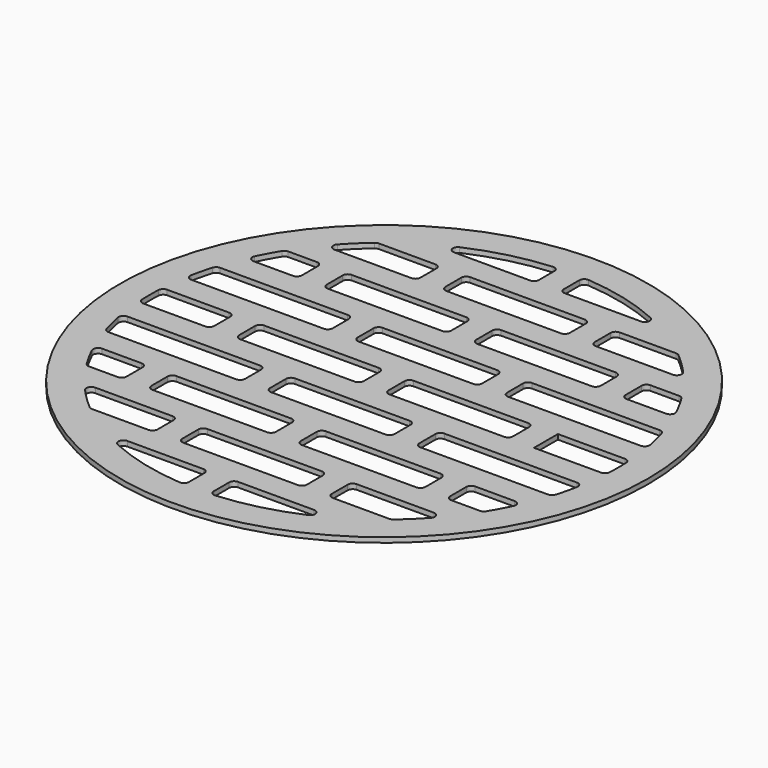
from build123d import *

# Parameters (mm, degrees)
F0_R     = 53
F0_W     = 25
F0_H     = 6
F1_DEPTH = 1
F2_R     = 1


with BuildPart() as f1:
    # F0 (on Top) → F1 (new body)
    with BuildSketch(Plane.XY):
        Circle(F0_R)
        with BuildLine():
            Line((-17.5, -30), (-17.5, -36))
            Line((-17.5, -36), (-30.21589, -36))
            ThreePointArc((-30.21589, -36), (-33.333272, -33.134468), (-36.180105, -30))
            Line((-36.180105, -30), (-17.5, -30))
        make_face(mode=Mode.SUBTRACT)
        with BuildLine():
            Line((-2.5, -41), (-2.5, -46.933464))
            ThreePointArc((-2.5, -46.933464), (-13.080016, -45.143252), (-22.978251, -41))
            Line((-22.978251, -41), (-2.5, -41))
        make_face(mode=Mode.SUBTRACT)
        with BuildLine():
            Line((-32.5, -25), (-39.799497, -25))
            ThreePointArc((-39.799497, -25), (-41.502503, -22.057702), (-42.988371, -19))
            Line((-42.988371, -19), (-32.5, -19))
            Line((-32.5, -19), (-32.5, -25))
        make_face(mode=Mode.SUBTRACT)
        with BuildLine():
            Line((-17.5, -14), (-44.866469, -14))
            ThreePointArc((-44.866469, -14), (-45.688905, -11.02379), (-46.314145, -8))
            Line((-46.314145, -8), (-17.5, -8))
            Line((-17.5, -8), (-17.5, -14))
        make_face(mode=Mode.SUBTRACT)
        with Locations((-15, -22)):
            Rectangle(F0_W, F0_H, mode=Mode.SUBTRACT)
        with BuildLine():
            ThreePointArc((22.978251, -41), (13.080016, -45.143252), (2.5, -46.933464))
            Line((2.5, -46.933464), (2.5, -41))
            Line((2.5, -41), (22.978251, -41))
        make_face(mode=Mode.SUBTRACT)
        with Locations((0, -33)):
            Rectangle(F0_W, F0_H, mode=Mode.SUBTRACT)
        with BuildLine():
            Line((30.21589, -36), (17.5, -36))
            Line((17.5, -36), (17.5, -30))
            Line((17.5, -30), (36.180105, -30))
            ThreePointArc((36.180105, -30), (33.333272, -33.134468), (30.21589, -36))
        make_face(mode=Mode.SUBTRACT)
        with Locations((15, -22)):
            Rectangle(F0_W, F0_H, mode=Mode.SUBTRACT)
        with Locations((0, -11)):
            Rectangle(F0_W, F0_H, mode=Mode.SUBTRACT)
        with BuildLine():
            Line((32.5, -19), (42.988371, -19))
            ThreePointArc((42.988371, -19), (41.502503, -22.057702), (39.799497, -25))
            Line((39.799497, -25), (32.5, -25))
            Line((32.5, -25), (32.5, -19))
        make_face(mode=Mode.SUBTRACT)
        with BuildLine():
            Line((17.5, -8), (46.314145, -8))
            ThreePointArc((46.314145, -8), (45.688905, -11.02379), (44.866469, -14))
            Line((44.866469, -14), (17.5, -14))
            Line((17.5, -14), (17.5, -8))
        make_face(mode=Mode.SUBTRACT)
        with BuildLine():
            Line((-32.5, -3), (-46.904158, -3))
            ThreePointArc((-46.904158, -3), (-47, 0), (-46.904158, 3))
            Line((-46.904158, 3), (-32.5, 3))
            Line((-32.5, 3), (-32.5, -3))
        make_face(mode=Mode.SUBTRACT)
        with BuildLine():
            Line((-17.5, 8), (-46.314145, 8))
            ThreePointArc((-46.314145, 8), (-45.688905, 11.02379), (-44.866469, 14))
            Line((-44.866469, 14), (-17.5, 14))
            Line((-17.5, 14), (-17.5, 8))
        make_face(mode=Mode.SUBTRACT)
        with BuildLine():
            Line((-32.5, 19), (-42.988371, 19))
            ThreePointArc((-42.988371, 19), (-41.502503, 22.057702), (-39.799497, 25))
            Line((-39.799497, 25), (-32.5, 25))
            Line((-32.5, 25), (-32.5, 19))
        make_face(mode=Mode.SUBTRACT)
        with Locations((-15, 0)):
            Rectangle(F0_W, F0_H, mode=Mode.SUBTRACT)
        with Locations((-15, 22)):
            Rectangle(F0_W, F0_H, mode=Mode.SUBTRACT)
        with BuildLine():
            Line((-17.5, 30), (-36.180105, 30))
            ThreePointArc((-36.180105, 30), (-33.333272, 33.134468), (-30.21589, 36))
            Line((-30.21589, 36), (-17.5, 36))
            Line((-17.5, 36), (-17.5, 30))
        make_face(mode=Mode.SUBTRACT)
        with BuildLine():
            ThreePointArc((-22.978251, 41), (-13.080016, 45.143252), (-2.5, 46.933464))
            Line((-2.5, 46.933464), (-2.5, 41))
            Line((-2.5, 41), (-22.978251, 41))
        make_face(mode=Mode.SUBTRACT)
        with Locations((0, 11)):
            Rectangle(F0_W, F0_H, mode=Mode.SUBTRACT)
        with Locations((15, 0)):
            Rectangle(F0_W, F0_H, mode=Mode.SUBTRACT)
        with Locations((15, 22)):
            Rectangle(F0_W, F0_H, mode=Mode.SUBTRACT)
        with BuildLine():
            ThreePointArc((44.866469, 14), (45.688905, 11.02379), (46.314145, 8))
            Line((46.314145, 8), (17.5, 8))
            Line((17.5, 8), (17.5, 14))
            Line((17.5, 14), (44.866469, 14))
        make_face(mode=Mode.SUBTRACT)
        with BuildLine():
            Line((32.5, -3), (32.5, 3))
            Line((32.5, 3), (46.904158, 3))
            ThreePointArc((46.904158, 3), (47, 0), (46.904158, -3))
            Line((46.904158, -3), (32.5, -3))
        make_face(mode=Mode.SUBTRACT)
        with BuildLine():
            ThreePointArc((39.799497, 25), (41.502503, 22.057702), (42.988371, 19))
            Line((42.988371, 19), (32.5, 19))
            Line((32.5, 19), (32.5, 25))
            Line((32.5, 25), (39.799497, 25))
        make_face(mode=Mode.SUBTRACT)
        with Locations((0, 33)):
            Rectangle(F0_W, F0_H, mode=Mode.SUBTRACT)
        with BuildLine():
            ThreePointArc((2.5, 46.933464), (13.080016, 45.143252), (22.978251, 41))
            Line((22.978251, 41), (2.5, 41))
            Line((2.5, 41), (2.5, 46.933464))
        make_face(mode=Mode.SUBTRACT)
        with BuildLine():
            ThreePointArc((30.21589, 36), (33.333272, 33.134468), (36.180105, 30))
            Line((36.180105, 30), (17.5, 30))
            Line((17.5, 30), (17.5, 36))
            Line((17.5, 36), (30.21589, 36))
        make_face(mode=Mode.SUBTRACT)
    extrude(amount=F1_DEPTH)

    # F2
    f2_edges = [f1.edges().sort_by_distance(p)[0] for p in [
        (22.978251, 41, 0.5),
        (-22.978251, 41, 0.5),
        (36.180105, 30, 0.5),
        (42.988371, 19, 0.5),
        (46.314145, 8, 0.5),
        (46.314145, -8, 0.5),
        (46.904158, 3, 0.5),
        (46.904158, -3, 0.5),
        (44.866469, -14, 0.5),
        (39.799497, -25, 0.5),
        (30.21589, -36, 0.5),
        (22.978251, -41, 0.5),
        (36.180105, -30, 0.5),
        (42.988371, -19, 0.5),
        (44.866469, 14, 0.5),
        (39.799497, 25, 0.5),
        (30.21589, 36, 0.5),
        (-2.5, 46.933464, 0.5),
        (-2.5, 41, 0.5),
        (2.5, 46.933464, 0.5),
        (2.5, 41, 0.5),
        (-36.180105, 30, 0.5),
        (-30.21589, 36, 0.5),
        (-17.5, 36, 0.5),
        (-17.5, 30, 0.5),
        (-2.5, 19, 0.5),
        (-32.5, 19, 0.5),
        (-32.5, 25, 0.5),
        (-39.799497, 25, 0.5),
        (-42.988371, 19, 0.5),
        (-27.5, 19, 0.5),
        (-27.5, 25, 0.5),
        (-2.5, 25, 0.5),
        (12.5, 36, 0.5),
        (-12.5, 36, 0.5),
        (-12.5, 30, 0.5),
        (12.5, 30, 0.5),
        (17.5, 30, 0.5),
        (17.5, 36, 0.5),
        (32.5, 25, 0.5),
        (32.5, 19, 0.5),
        (27.5, 19, 0.5),
        (27.5, 25, 0.5),
        (2.5, 25, 0.5),
        (2.5, 19, 0.5),
        (17.5, 14, 0.5),
        (17.5, 8, 0.5),
        (-12.5, 8, 0.5),
        (-46.314145, 8, 0.5),
        (-12.5, 14, 0.5),
        (-44.866469, 14, 0.5),
        (-17.5, 14, 0.5),
        (-17.5, 8, 0.5),
        (12.5, 8, 0.5),
        (12.5, 14, 0.5),
        (27.5, 3, 0.5),
        (27.5, -3, 0.5),
        (-2.5, -3, 0.5),
        (-2.5, 3, 0.5),
        (-32.5, 3, 0.5),
        (-32.5, -3, 0.5),
        (-46.904158, 3, 0.5),
        (-44.866469, -14, 0.5),
        (-46.904158, -3, 0.5),
        (-27.5, -3, 0.5),
        (2.5, -3, 0.5),
        (2.5, 3, 0.5),
        (-17.5, -8, 0.5),
        (-17.5, -14, 0.5),
        (-46.314145, -8, 0.5),
        (-12.5, -8, 0.5),
        (-12.5, -14, 0.5),
        (12.5, -14, 0.5),
        (12.5, -8, 0.5),
        (17.5, -8, 0.5),
        (17.5, -14, 0.5),
        (32.5, -19, 0.5),
        (32.5, -25, 0.5),
        (17.5, -36, 0.5),
        (17.5, -30, 0.5),
        (2.5, -19, 0.5),
        (27.5, -19, 0.5),
        (27.5, -25, 0.5),
        (2.5, -25, 0.5),
        (-12.5, -36, 0.5),
        (-30.21589, -36, 0.5),
        (-36.180105, -30, 0.5),
        (-17.5, -30, 0.5),
        (-17.5, -36, 0.5),
        (-2.5, -46.933464, 0.5),
        (-22.978251, -41, 0.5),
        (-2.5, -41, 0.5),
        (2.5, -41, 0.5),
        (2.5, -46.933464, 0.5),
        (-12.5, -30, 0.5),
        (12.5, -36, 0.5),
        (12.5, -30, 0.5),
        (-2.5, -19, 0.5),
        (-32.5, -19, 0.5),
        (-42.988371, -19, 0.5),
        (-27.5, -19, 0.5),
        (-39.799497, -25, 0.5),
        (-27.5, -25, 0.5),
        (-32.5, -25, 0.5),
        (-2.5, -25, 0.5),
        (-27.5, 3, 0.5),
    ]]
    fillet(f2_edges, radius=F2_R)


solid = f1.part
